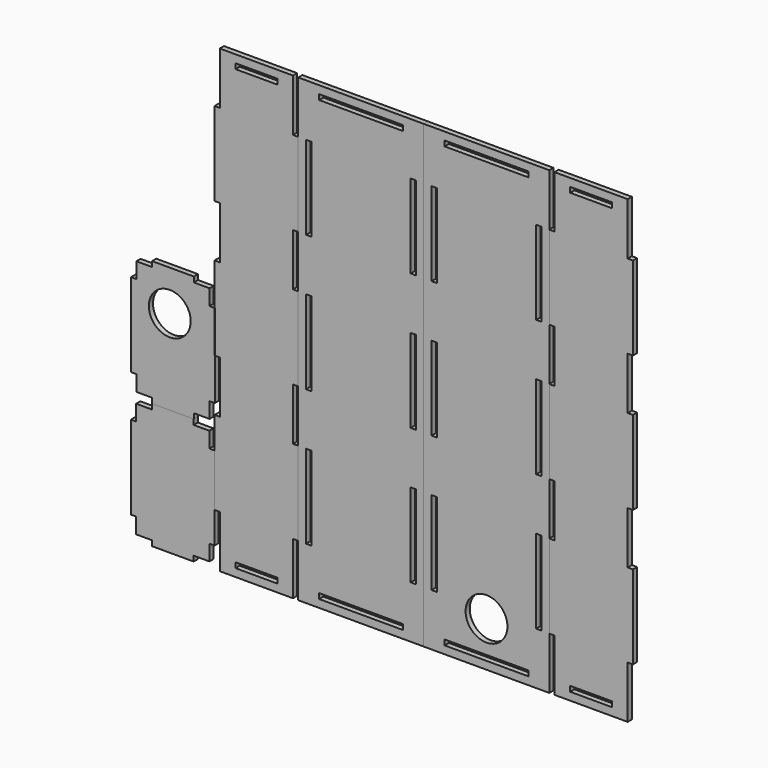
from build123d import *

# Parameters (mm, degrees)
F0_W     = 50.8
F0_H     = 3.175
F0_W_2   = 3.175
F0_H_2   = 50.8
F1_DEPTH = 3.175
F0_R     = 12.7
F2_DEPTH = 3.175
F0_W_3   = 25.4
F3_DEPTH = 3.175
F4_DEPTH = 3.175
F5_DEPTH = 3.175
F6_DEPTH = 3.175


with BuildPart() as f1:
    # F0 (on Front) → F1 (new body)
    with BuildSketch(Plane.XZ):
        Polygon((-38.1, -139.7), (-38.1, 139.7), (-114.3, 139.7), (-114.3, 107.95), (-114.3, 57.15), (-114.3, 25.4), (-114.3, -25.4), (-114.3, -57.15), (-114.3, -107.95), (-114.3, -139.7), align=None)
        with Locations((-76.2, -133.35)):
            Rectangle(F0_W, F0_H, mode=Mode.SUBTRACT)
        with Locations((-107.95, -82.55)):
            Rectangle(F0_W_2, F0_H_2, mode=Mode.SUBTRACT)
        with Locations((-44.45, -82.55)):
            Rectangle(F0_W_2, F0_H_2, mode=Mode.SUBTRACT)
        with Locations((-107.95, 0)):
            Rectangle(F0_W_2, F0_H_2, mode=Mode.SUBTRACT)
        with Locations((-107.95, 82.55)):
            Rectangle(F0_W_2, F0_H_2, mode=Mode.SUBTRACT)
        with Locations((-76.2, 133.35)):
            Rectangle(F0_W, F0_H, mode=Mode.SUBTRACT)
        with Locations((-44.45, 0)):
            Rectangle(F0_W_2, F0_H_2, mode=Mode.SUBTRACT)
        with Locations((-44.45, 82.55)):
            Rectangle(F0_W_2, F0_H_2, mode=Mode.SUBTRACT)
    extrude(amount=F1_DEPTH)


with BuildPart() as f2:
    # F0 (on Front) → F2 (new body)
    with BuildSketch(Plane.XZ):
        Polygon((38.1, 139.7), (-38.1, 139.7), (-38.1, -139.7), (38.1, -139.7), (38.1, -107.95), (38.1, -57.15), (38.1, -25.4), (38.1, 25.4), (38.1, 57.15), (38.1, 107.95), align=None)
        with Locations((0, -133.35)):
            Rectangle(F0_W, F0_H, mode=Mode.SUBTRACT)
        with Locations((0, -112.474121)):
            Circle(F0_R, mode=Mode.SUBTRACT)
        with Locations((-31.75, -82.55)):
            Rectangle(F0_W_2, F0_H_2, mode=Mode.SUBTRACT)
        with Locations((31.75, -82.55)):
            Rectangle(F0_W_2, F0_H_2, mode=Mode.SUBTRACT)
        with Locations((-31.75, 0)):
            Rectangle(F0_W_2, F0_H_2, mode=Mode.SUBTRACT)
        with Locations((31.75, 0)):
            Rectangle(F0_W_2, F0_H_2, mode=Mode.SUBTRACT)
        with Locations((-31.75, 82.55)):
            Rectangle(F0_W_2, F0_H_2, mode=Mode.SUBTRACT)
        with Locations((0, 133.35)):
            Rectangle(F0_W, F0_H, mode=Mode.SUBTRACT)
        with Locations((31.75, 82.55)):
            Rectangle(F0_W_2, F0_H_2, mode=Mode.SUBTRACT)
    extrude(amount=F2_DEPTH)


with BuildPart() as f3:
    # F0 (on Front) → F3 (new body)
    with BuildSketch(Plane.XZ):
        Polygon((41.275, 107.95), (38.1, 107.95), (38.1, 57.15), (41.275, 57.15), (41.275, 25.4), (38.1, 25.4), (38.1, -25.4), (41.275, -25.4), (41.275, -57.15), (38.1, -57.15), (38.1, -107.95), (41.275, -107.95), (41.275, -134.9375), (41.275, -139.7), (85.725, -139.7), (85.725, -134.9375), (85.725, -107.95), (88.9, -107.95), (88.9, -57.15), (85.725, -57.15), (85.725, -25.4), (88.9, -25.4), (88.9, 25.4), (85.725, 25.4), (85.725, 57.15), (88.9, 57.15), (88.9, 107.95), (85.725, 107.95), (85.725, 134.9375), (85.725, 139.7), (41.275, 139.7), (41.275, 134.9375), align=None)
        with Locations((63.5, -133.35)):
            Rectangle(F0_W_3, F0_H, mode=Mode.SUBTRACT)
        with Locations((63.5, 133.35)):
            Rectangle(F0_W_3, F0_H, mode=Mode.SUBTRACT)
    extrude(amount=F3_DEPTH)


with BuildPart() as f4:
    # F0 (on Front) → F4 (new body)
    with BuildSketch(Plane.XZ):
        Polygon((-114.3, 57.15), (-114.3, 107.95), (-117.475, 107.95), (-117.475, 134.9375), (-117.475, 139.7), (-161.925, 139.7), (-161.925, 134.9375), (-161.925, 107.95), (-165.1, 107.95), (-165.1, 57.15), (-161.925, 57.15), (-161.925, 25.4), (-165.1, 25.4), (-165.1, 0), (-164.964784, 0), (-164.964784, -25.4), (-161.925, -25.4), (-161.925, -57.15), (-165.1, -57.15), (-165.1, -58.7375), (-165.1, -63.5), (-165.1, -76.2), (-165.1, -107.95), (-161.925, -107.95), (-161.925, -134.9375), (-161.925, -139.7), (-117.475, -139.7), (-117.475, -134.9375), (-117.475, -107.95), (-114.3, -107.95), (-114.3, -57.15), (-117.475, -57.15), (-117.475, -25.4), (-114.3, -25.4), (-114.3, 25.4), (-117.475, 25.4), (-117.475, 57.15), align=None)
        with Locations((-139.7, -133.35)):
            Rectangle(F0_W_3, F0_H, mode=Mode.SUBTRACT)
        with Locations((-139.7, 133.35)):
            Rectangle(F0_W_3, F0_H, mode=Mode.SUBTRACT)
    extrude(amount=F4_DEPTH)


with BuildPart() as f5:
    # F0 (on Front) → F5 (new body)
    with BuildSketch(Plane.XZ):
        Polygon((-165.1, -25.4), (-165.1, 0), (-168.139784, 0), (-168.139784, 9.525), (-177.664784, 9.525), (-177.664784, 12.7), (-203.064784, 12.7), (-203.064784, 9.525), (-212.589784, 9.525), (-212.589784, 0), (-215.764784, 0), (-215.764784, -50.8), (-212.589784, -50.8), (-212.589784, -60.325), (-203.064784, -60.325), (-203.064784, -63.5), (-177.8, -63.5), (-177.664784, -63.5), (-177.664784, -60.325), (-168.139784, -60.325), (-168.139784, -50.8), (-164.964784, -50.8), (-164.964784, -25.4), align=None)
        with Locations((-192.310721, -11.874435)):
            Circle(F0_R, mode=Mode.SUBTRACT)
    extrude(amount=F5_DEPTH)


with BuildPart() as f6:
    # F0 (on Front) → F6 (new body)
    with BuildSketch(Plane.XZ):
        Polygon((-165.1, -127), (-165.1, -107.95), (-165.1, -76.2), (-168.275, -76.2), (-168.275, -66.675), (-177.8, -66.675), (-177.8, -63.5), (-203.064784, -63.5), (-203.2, -63.5), (-203.2, -66.675), (-212.725, -66.675), (-212.725, -76.2), (-215.9, -76.2), (-215.9, -127), (-212.725, -127), (-212.725, -136.525), (-203.2, -136.525), (-203.2, -139.7), (-177.8, -139.7), (-177.8, -136.525), (-168.275, -136.525), (-168.275, -127), align=None)
    extrude(amount=F6_DEPTH)


solid = Compound([f1.part, f2.part, f3.part, f4.part, f5.part, f6.part])
